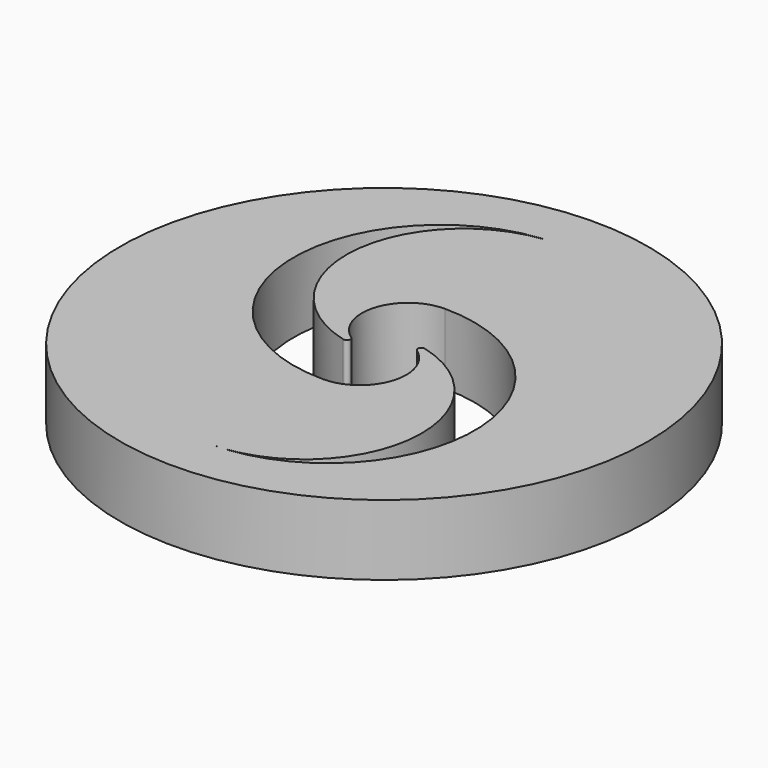
from build123d import *

# Parameters (mm, degrees)
F0_R     = 22.5
F1_DEPTH = 6
F3_DEPTH = 25
F5_DEPTH = 25


with BuildPart() as f1:
    # F0 (on Top) → F1 (new body)
    with BuildSketch(Plane.XY):
        Circle(F0_R)
    extrude(amount=F1_DEPTH)

    # F2 (on face) → F3 (cut)
    with BuildSketch(Plane.XY.offset(6)):
        with BuildLine():
            ThreePointArc((0, 18.5), (-12.5, 6), (0, -6.5))
            ThreePointArc((0, -6.5), (2.5, -4), (0, -1.5))
            ThreePointArc((0, -1.5), (-10, 8.5), (0, 18.5))
        make_face()
        with BuildLine():
            ThreePointArc((0, 1.5), (10, -8.5), (0, -18.5))
            ThreePointArc((0, -18.5), (12.5, -6), (0, 6.5))
            ThreePointArc((0, 6.5), (-2.5, 4), (0, 1.5))
        make_face()
    extrude(amount=-F3_DEPTH, mode=Mode.SUBTRACT)

    # F4 (on face) → F5 (cut)
    with BuildSketch(Plane.XY.offset(6)):
        with BuildLine():
            ThreePointArc((2.298482, 0.635708), (2.202225, 1.007236), (2.550083, 1.169389))
            ThreePointArc((2.550083, 1.169389), (1.285713, 1.417003), (0, 1.5))
            Line((0, 1.5), (0, -1.5))
            ThreePointArc((0, -1.5), (-2.5, -4), (0, -6.5))
            ThreePointArc((0, -6.5), (3.748378, -3.769354), (2.298482, 0.635708))
        make_face()
        with BuildLine():
            Line((0, -1.5), (0, 1.5))
            ThreePointArc((0, 1.5), (2.5, 4), (0, 6.5))
            ThreePointArc((0, 6.5), (-3.748378, 3.769354), (-2.298482, -0.635708))
            ThreePointArc((-2.298482, -0.635708), (-2.202225, -1.007236), (-2.550083, -1.169389))
            ThreePointArc((-2.550083, -1.169389), (-1.285713, -1.417003), (0, -1.5))
        make_face()
    extrude(amount=-F5_DEPTH, mode=Mode.SUBTRACT)


solid = f1.part
